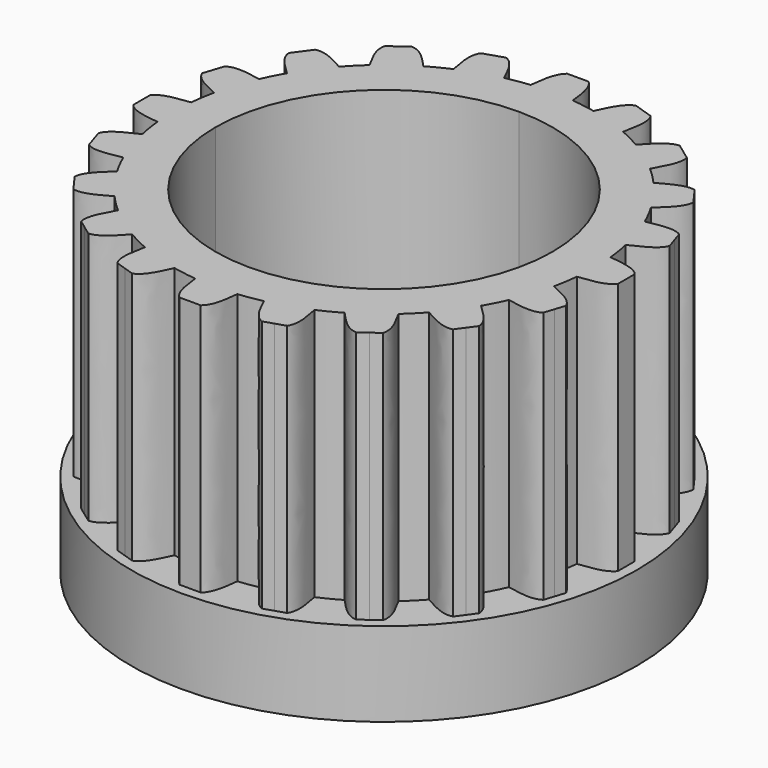
from build123d import *

# Parameters (mm, degrees)
F1_DEPTH = 6
F2_R     = 6
F3_DEPTH = 2
F4_D     = 7.9
F5_R     = 7
F6_DEPTH = 25


with BuildPart() as f1:
    # F0 (on Top) → F1 (new body)
    with BuildSketch(Plane.XY):
        with BuildLine():
            add(Edge.make_bspline(
                [(-2.0128683944, 4.5769379313), (-2.0760023158, 4.8905129064), (-2.1391362037, 5.2040878033), (-2.0146118467, 5.3913207201)],
                knots=[0, 0, 0, 0, 0.3592526572, 0.3592526572, 0.3592526572, 0.3592526572], degree=3))
            ThreePointArc((-2.0128683944, 4.5769379313), (-1.5450849719, 4.7552825815), (-1.0618118781, 4.8859549256))
            add(Edge.make_bspline(
                [(-1.5390835886, 5.5458292173), (-1.3282885019, 5.4675481998), (-1.1950501538, 5.1767516591), (-1.0618118781, 4.8859549256)],
                knots=[0.6407473428, 0.6407473428, 0.6407473428, 0.6407473428, 1, 1, 1, 1], degree=3))
            Line((-1.5390835886, 5.5458292173), (-1.7768477177, 5.4685749687))
            Line((-1.7768477177, 5.4685749687), (-2.0146118467, 5.3913207201))
        make_face()
        with BuildLine():
            add(Edge.make_bspline(
                [(-3.3287032059, 3.7309161029), (-3.4856470679, 4.0096340482), (-3.6425909881, 4.288352127), (-3.5820194493, 4.5049014046)],
                knots=[0, 0, 0, 0, 0.3592526572, 0.3592526572, 0.3592526572, 0.3592526572], degree=3))
            ThreePointArc((-3.3287032059, 3.7309161029), (-3.1377492418, 3.8928819267), (-2.9389262615, 4.0450849719))
            ThreePointArc((-2.9389262615, 4.0450849719), (-2.7327328838, 4.1871435354), (-2.5196862116, 4.3187013552))
            add(Edge.make_bspline(
                [(-3.1775109521, 4.7987940307), (-2.9528427626, 4.7894835432), (-2.7362645588, 4.5540922916), (-2.5196862116, 4.3187013552)],
                knots=[0.6407473428, 0.6407473428, 0.6407473428, 0.6407473428, 1, 1, 1, 1], degree=3))
            Line((-3.1775109521, 4.7987940307), (-3.3797652007, 4.6518477177))
            Line((-3.3797652007, 4.6518477177), (-3.5820194493, 4.5049014046))
        make_face()
        with BuildLine():
            add(Edge.make_bspline(
                [(-4.3187013552, 2.5196862116), (-4.5540924589, 2.7362645309), (-4.7894835831, 2.952842754), (-4.7987940307, 3.1775109521)],
                knots=[0, 0, 0, 0, 0.3592526572, 0.3592526572, 0.3592526572, 0.3592526572], degree=3))
            ThreePointArc((-4.3187013552, 2.5196862116), (-4.0450849719, 2.9389262615), (-3.7309161029, 3.3287032059))
            add(Edge.make_bspline(
                [(-4.5049014046, 3.5820194493), (-4.2883521382, 3.6425909796), (-4.0096340482, 3.48564704), (-3.7309161029, 3.3287032059)],
                knots=[0.6407473428, 0.6407473428, 0.6407473428, 0.6407473428, 1, 1, 1, 1], degree=3))
            Line((-4.5049014046, 3.5820194493), (-4.6518477177, 3.3797652007))
            Line((-4.6518477177, 3.3797652007), (-4.7987940307, 3.1775109521))
        make_face()
        with BuildLine():
            add(Edge.make_bspline(
                [(-4.8859549256, 1.0618118781), (-5.1767517427, 1.1950501538), (-5.4675482104, 1.3282885024), (-5.5458292173, 1.5390835886)],
                knots=[0, 0, 0, 0, 0.3592526572, 0.3592526572, 0.3592526572, 0.3592526572], degree=3))
            ThreePointArc((-4.8859549256, 1.0618118781), (-4.8266710462, 1.3050849061), (-4.7552825815, 1.5450849719))
            ThreePointArc((-4.7552825815, 1.5450849719), (-4.6719685634, 1.7812101905), (-4.5769379313, 2.0128683944))
            add(Edge.make_bspline(
                [(-5.3913207201, 2.0146118467), (-5.2040877757, 2.1391362053), (-4.890512767, 2.0760023228), (-4.5769379313, 2.0128683944)],
                knots=[0.6407473428, 0.6407473428, 0.6407473428, 0.6407473428, 1, 1, 1, 1], degree=3))
            Line((-5.3913207201, 2.0146118467), (-5.4685749687, 1.7768477177))
            Line((-5.4685749687, 1.7768477177), (-5.5458292173, 1.5390835886))
        make_face()
        with BuildLine():
            add(Edge.make_bspline(
                [(-5.75, -0.25), (-5.6104110628, -0.4262878476), (-5.2926741978, -0.4631438819), (-4.9749371855, -0.5)],
                knots=[0.6407473428, 0.6407473428, 0.6407473428, 0.6407473428, 1, 1, 1, 1], degree=3))
            ThreePointArc((-4.9749371855, -0.5), (-4.9937303656, -0.2503138753), (-5, 0))
            ThreePointArc((-5, 0), (-4.9937303656, 0.2503138753), (-4.9749371855, 0.5))
            add(Edge.make_bspline(
                [(-4.9749371855, 0.5), (-5.29267417, 0.4631439272), (-5.610411058, 0.4262878615), (-5.75, 0.25)],
                knots=[0, 0, 0, 0, 0.3592526572, 0.3592526572, 0.3592526572, 0.3592526572], degree=3))
            Line((-5.75, 0.25), (-5.75, 0))
            Line((-5.75, 0), (-5.75, -0.25))
        make_face()
        with BuildLine():
            add(Edge.make_bspline(
                [(-5.3913207201, -2.0146118467), (-5.2040877757, -2.1391362053), (-4.890512767, -2.0760023228), (-4.5769379313, -2.0128683944)],
                knots=[0.6407473428, 0.6407473428, 0.6407473428, 0.6407473428, 1, 1, 1, 1], degree=3))
            ThreePointArc((-4.5769379313, -2.0128683944), (-4.7552825815, -1.5450849719), (-4.8859549256, -1.0618118781))
            add(Edge.make_bspline(
                [(-4.8859549256, -1.0618118781), (-5.1767517427, -1.1950501538), (-5.4675482104, -1.3282885024), (-5.5458292173, -1.5390835886)],
                knots=[0, 0, 0, 0, 0.3592526572, 0.3592526572, 0.3592526572, 0.3592526572], degree=3))
            Line((-5.5458292173, -1.5390835886), (-5.4685749687, -1.7768477177))
            Line((-5.4685749687, -1.7768477177), (-5.3913207201, -2.0146118467))
        make_face()
        with BuildLine():
            add(Edge.make_bspline(
                [(-4.5049014046, -3.5820194493), (-4.2883521382, -3.6425909796), (-4.0096340482, -3.48564704), (-3.7309161029, -3.3287032059)],
                knots=[0.6407473428, 0.6407473428, 0.6407473428, 0.6407473428, 1, 1, 1, 1], degree=3))
            ThreePointArc((-3.7309161029, -3.3287032059), (-4.0450849719, -2.9389262615), (-4.3187013552, -2.5196862116))
            add(Edge.make_bspline(
                [(-4.3187013552, -2.5196862116), (-4.5540924589, -2.7362645309), (-4.7894835831, -2.952842754), (-4.7987940307, -3.1775109521)],
                knots=[0, 0, 0, 0, 0.3592526572, 0.3592526572, 0.3592526572, 0.3592526572], degree=3))
            Line((-4.7987940307, -3.1775109521), (-4.6518477177, -3.3797652007))
            Line((-4.6518477177, -3.3797652007), (-4.5049014046, -3.5820194493))
        make_face()
        with BuildLine():
            add(Edge.make_bspline(
                [(-3.1775109521, -4.7987940307), (-2.9528427626, -4.7894835432), (-2.7362645588, -4.5540922916), (-2.5196862116, -4.3187013552)],
                knots=[0.6407473428, 0.6407473428, 0.6407473428, 0.6407473428, 1, 1, 1, 1], degree=3))
            ThreePointArc((-2.5196862116, -4.3187013552), (-2.9389262615, -4.0450849719), (-3.3287032059, -3.7309161029))
            add(Edge.make_bspline(
                [(-3.3287032059, -3.7309161029), (-3.4856470679, -4.0096340482), (-3.6425909881, -4.288352127), (-3.5820194493, -4.5049014046)],
                knots=[0, 0, 0, 0, 0.3592526572, 0.3592526572, 0.3592526572, 0.3592526572], degree=3))
            Line((-3.5820194493, -4.5049014046), (-3.3797652007, -4.6518477177))
            Line((-3.3797652007, -4.6518477177), (-3.1775109521, -4.7987940307))
        make_face()
        with BuildLine():
            add(Edge.make_bspline(
                [(-1.5390835886, -5.5458292173), (-1.3282885019, -5.4675481998), (-1.1950501538, -5.1767516591), (-1.0618118781, -4.8859549256)],
                knots=[0.6407473428, 0.6407473428, 0.6407473428, 0.6407473428, 1, 1, 1, 1], degree=3))
            ThreePointArc((-1.0618118781, -4.8859549256), (-1.5450849719, -4.7552825815), (-2.0128683944, -4.5769379313))
            add(Edge.make_bspline(
                [(-2.0128683944, -4.5769379313), (-2.0760023158, -4.8905129064), (-2.1391362037, -5.2040878033), (-2.0146118467, -5.3913207201)],
                knots=[0, 0, 0, 0, 0.3592526572, 0.3592526572, 0.3592526572, 0.3592526572], degree=3))
            Line((-2.0146118467, -5.3913207201), (-1.7768477177, -5.4685749687))
            Line((-1.7768477177, -5.4685749687), (-1.5390835886, -5.5458292173))
        make_face()
        with BuildLine():
            ThreePointArc((1.5450849719, -4.7552825815), (1.3050849061, -4.8266710462), (1.0618118781, -4.8859549256))
            add(Edge.make_bspline(
                [(1.5390835886, -5.5458292173), (1.3282885019, -5.4675481998), (1.1950501538, -5.1767516591), (1.0618118781, -4.8859549256)],
                knots=[0.6407473428, 0.6407473428, 0.6407473428, 0.6407473428, 1, 1, 1, 1], degree=3))
            Line((1.5390835886, -5.5458292173), (1.7768477177, -5.4685749687))
            Line((1.7768477177, -5.4685749687), (2.0146118467, -5.3913207201))
            add(Edge.make_bspline(
                [(2.0128683944, -4.5769379313), (2.0760023158, -4.8905129064), (2.1391362037, -5.2040878033), (2.0146118467, -5.3913207201)],
                knots=[0, 0, 0, 0, 0.3592526572, 0.3592526572, 0.3592526572, 0.3592526572], degree=3))
            ThreePointArc((2.0128683944, -4.5769379313), (1.7812101905, -4.6719685634), (1.5450849719, -4.7552825815))
        make_face()
        with BuildLine():
            add(Edge.make_bspline(
                [(0.25, -5.75), (0.4262878476, -5.6104110628), (0.4631438819, -5.2926741978), (0.5, -4.9749371855)],
                knots=[0.6407473428, 0.6407473428, 0.6407473428, 0.6407473428, 1, 1, 1, 1], degree=3))
            ThreePointArc((0.5, -4.9749371855), (0.2503138753, -4.9937303656), (0, -5))
            ThreePointArc((0, -5), (-0.2503138753, -4.9937303656), (-0.5, -4.9749371855))
            add(Edge.make_bspline(
                [(-0.5, -4.9749371855), (-0.4631439272, -5.29267417), (-0.4262878615, -5.610411058), (-0.25, -5.75)],
                knots=[0, 0, 0, 0, 0.3592526572, 0.3592526572, 0.3592526572, 0.3592526572], degree=3))
            Line((-0.25, -5.75), (0, -5.75))
            Line((0, -5.75), (0.25, -5.75))
        make_face()
        with BuildLine():
            ThreePointArc((2.9389262615, -4.0450849719), (2.7327328838, -4.1871435354), (2.5196862116, -4.3187013552))
            add(Edge.make_bspline(
                [(3.1775109521, -4.7987940307), (2.9528427626, -4.7894835432), (2.7362645588, -4.5540922916), (2.5196862116, -4.3187013552)],
                knots=[0.6407473428, 0.6407473428, 0.6407473428, 0.6407473428, 1, 1, 1, 1], degree=3))
            Line((3.1775109521, -4.7987940307), (3.3797652007, -4.6518477177))
            Line((3.3797652007, -4.6518477177), (3.5820194493, -4.5049014046))
            add(Edge.make_bspline(
                [(3.3287032059, -3.7309161029), (3.4856470679, -4.0096340482), (3.6425909881, -4.288352127), (3.5820194493, -4.5049014046)],
                knots=[0, 0, 0, 0, 0.3592526572, 0.3592526572, 0.3592526572, 0.3592526572], degree=3))
            ThreePointArc((3.3287032059, -3.7309161029), (3.1377492418, -3.8928819267), (2.9389262615, -4.0450849719))
        make_face()
        with BuildLine():
            ThreePointArc((4.3187013552, -2.5196862116), (4.0450849719, -2.9389262615), (3.7309161029, -3.3287032059))
            add(Edge.make_bspline(
                [(4.5049014046, -3.5820194493), (4.2883521382, -3.6425909796), (4.0096340482, -3.48564704), (3.7309161029, -3.3287032059)],
                knots=[0.6407473428, 0.6407473428, 0.6407473428, 0.6407473428, 1, 1, 1, 1], degree=3))
            Line((4.5049014046, -3.5820194493), (4.6518477177, -3.3797652007))
            Line((4.6518477177, -3.3797652007), (4.7987940307, -3.1775109521))
            add(Edge.make_bspline(
                [(4.3187013552, -2.5196862116), (4.5540924589, -2.7362645309), (4.7894835831, -2.952842754), (4.7987940307, -3.1775109521)],
                knots=[0, 0, 0, 0, 0.3592526572, 0.3592526572, 0.3592526572, 0.3592526572], degree=3))
        make_face()
        with BuildLine():
            ThreePointArc((4.8859549256, -1.0618118781), (4.7552825815, -1.5450849719), (4.5769379313, -2.0128683944))
            add(Edge.make_bspline(
                [(5.3913207201, -2.0146118467), (5.2040877757, -2.1391362053), (4.890512767, -2.0760023228), (4.5769379313, -2.0128683944)],
                knots=[0.6407473428, 0.6407473428, 0.6407473428, 0.6407473428, 1, 1, 1, 1], degree=3))
            Line((5.3913207201, -2.0146118467), (5.4685749687, -1.7768477177))
            Line((5.4685749687, -1.7768477177), (5.5458292173, -1.5390835886))
            add(Edge.make_bspline(
                [(4.8859549256, -1.0618118781), (5.1767517427, -1.1950501538), (5.4675482104, -1.3282885024), (5.5458292173, -1.5390835886)],
                knots=[0, 0, 0, 0, 0.3592526572, 0.3592526572, 0.3592526572, 0.3592526572], degree=3))
        make_face()
        with BuildLine():
            ThreePointArc((4.9749371855, 0.5), (5, 0), (4.9749371855, -0.5))
            add(Edge.make_bspline(
                [(4.9749371855, -0.5), (5.29267417, -0.4631439272), (5.610411058, -0.4262878615), (5.75, -0.25)],
                knots=[0, 0, 0, 0, 0.3592526572, 0.3592526572, 0.3592526572, 0.3592526572], degree=3))
            Line((5.75, -0.25), (5.75, 0))
            Line((5.75, 0), (5.75, 0.25))
            add(Edge.make_bspline(
                [(5.75, 0.25), (5.6104110628, 0.4262878476), (5.2926741978, 0.4631438819), (4.9749371855, 0.5)],
                knots=[0.6407473428, 0.6407473428, 0.6407473428, 0.6407473428, 1, 1, 1, 1], degree=3))
        make_face()
        with BuildLine():
            ThreePointArc((4.5769379313, 2.0128683944), (4.7552825815, 1.5450849719), (4.8859549256, 1.0618118781))
            add(Edge.make_bspline(
                [(4.8859549256, 1.0618118781), (5.1767517427, 1.1950501538), (5.4675482104, 1.3282885024), (5.5458292173, 1.5390835886)],
                knots=[0, 0, 0, 0, 0.3592526572, 0.3592526572, 0.3592526572, 0.3592526572], degree=3))
            Line((5.5458292173, 1.5390835886), (5.4685749687, 1.7768477177))
            Line((5.4685749687, 1.7768477177), (5.3913207201, 2.0146118467))
            add(Edge.make_bspline(
                [(5.3913207201, 2.0146118467), (5.2040877757, 2.1391362053), (4.890512767, 2.0760023228), (4.5769379313, 2.0128683944)],
                knots=[0.6407473428, 0.6407473428, 0.6407473428, 0.6407473428, 1, 1, 1, 1], degree=3))
        make_face()
        with BuildLine():
            ThreePointArc((1.0618118781, 4.8859549256), (1.5450849719, 4.7552825815), (2.0128683944, 4.5769379313))
            add(Edge.make_bspline(
                [(2.0128683944, 4.5769379313), (2.0760023158, 4.8905129064), (2.1391362037, 5.2040878033), (2.0146118467, 5.3913207201)],
                knots=[0, 0, 0, 0, 0.3592526572, 0.3592526572, 0.3592526572, 0.3592526572], degree=3))
            Line((2.0146118467, 5.3913207201), (1.7768477177, 5.4685749687))
            Line((1.7768477177, 5.4685749687), (1.5390835886, 5.5458292173))
            add(Edge.make_bspline(
                [(1.5390835886, 5.5458292173), (1.3282885019, 5.4675481998), (1.1950501538, 5.1767516591), (1.0618118781, 4.8859549256)],
                knots=[0.6407473428, 0.6407473428, 0.6407473428, 0.6407473428, 1, 1, 1, 1], degree=3))
        make_face()
        with BuildLine():
            ThreePointArc((2.5196862116, 4.3187013552), (2.9389262615, 4.0450849719), (3.3287032059, 3.7309161029))
            add(Edge.make_bspline(
                [(3.3287032059, 3.7309161029), (3.4856470679, 4.0096340482), (3.6425909881, 4.288352127), (3.5820194493, 4.5049014046)],
                knots=[0, 0, 0, 0, 0.3592526572, 0.3592526572, 0.3592526572, 0.3592526572], degree=3))
            Line((3.5820194493, 4.5049014046), (3.3797652007, 4.6518477177))
            Line((3.3797652007, 4.6518477177), (3.1775109521, 4.7987940307))
            add(Edge.make_bspline(
                [(3.1775109521, 4.7987940307), (2.9528427626, 4.7894835432), (2.7362645588, 4.5540922916), (2.5196862116, 4.3187013552)],
                knots=[0.6407473428, 0.6407473428, 0.6407473428, 0.6407473428, 1, 1, 1, 1], degree=3))
        make_face()
        with BuildLine():
            ThreePointArc((-0.5, 4.9749371855), (0, 5), (0.5, 4.9749371855))
            add(Edge.make_bspline(
                [(0.25, 5.75), (0.4262878476, 5.6104110628), (0.4631438819, 5.2926741978), (0.5, 4.9749371855)],
                knots=[0.6407473428, 0.6407473428, 0.6407473428, 0.6407473428, 1, 1, 1, 1], degree=3))
            Line((0.25, 5.75), (0, 5.75))
            Line((0, 5.75), (-0.25, 5.75))
            add(Edge.make_bspline(
                [(-0.5, 4.9749371855), (-0.4631439272, 5.29267417), (-0.4262878615, 5.610411058), (-0.25, 5.75)],
                knots=[0, 0, 0, 0, 0.3592526572, 0.3592526572, 0.3592526572, 0.3592526572], degree=3))
        make_face()
        with BuildLine():
            ThreePointArc((3.7309161029, 3.3287032059), (4.0450849719, 2.9389262615), (4.3187013552, 2.5196862116))
            add(Edge.make_bspline(
                [(4.3187013552, 2.5196862116), (4.5540924589, 2.7362645309), (4.7894835831, 2.952842754), (4.7987940307, 3.1775109521)],
                knots=[0, 0, 0, 0, 0.3592526572, 0.3592526572, 0.3592526572, 0.3592526572], degree=3))
            Line((4.7987940307, 3.1775109521), (4.6518477177, 3.3797652007))
            Line((4.6518477177, 3.3797652007), (4.5049014046, 3.5820194493))
            add(Edge.make_bspline(
                [(4.5049014046, 3.5820194493), (4.2883521382, 3.6425909796), (4.0096340482, 3.48564704), (3.7309161029, 3.3287032059)],
                knots=[0.6407473428, 0.6407473428, 0.6407473428, 0.6407473428, 1, 1, 1, 1], degree=3))
        make_face()
        with BuildLine():
            ThreePointArc((0, -5), (0.2503138753, -4.9937303656), (0.5, -4.9749371855))
            ThreePointArc((0.5, -4.9749371855), (0.7821723252, -4.938441703), (1.0618118781, -4.8859549256))
            ThreePointArc((1.0618118781, -4.8859549256), (1.3050849061, -4.8266710462), (1.5450849719, -4.7552825815))
            ThreePointArc((1.5450849719, -4.7552825815), (1.7812101905, -4.6719685634), (2.0128683944, -4.5769379313))
            ThreePointArc((2.0128683944, -4.5769379313), (2.2699524987, -4.4550326209), (2.5196862116, -4.3187013552))
            ThreePointArc((2.5196862116, -4.3187013552), (2.7327328838, -4.1871435354), (2.9389262615, -4.0450849719))
            ThreePointArc((2.9389262615, -4.0450849719), (3.1377492418, -3.8928819267), (3.3287032059, -3.7309161029))
            ThreePointArc((3.3287032059, -3.7309161029), (3.5355339059, -3.5355339059), (3.7309161029, -3.3287032059))
            ThreePointArc((3.7309161029, -3.3287032059), (4.0450849719, -2.9389262615), (4.3187013552, -2.5196862116))
            ThreePointArc((4.3187013552, -2.5196862116), (4.4550326209, -2.2699524987), (4.5769379313, -2.0128683944))
            ThreePointArc((4.5769379313, -2.0128683944), (4.7552825815, -1.5450849719), (4.8859549256, -1.0618118781))
            ThreePointArc((4.8859549256, -1.0618118781), (4.938441703, -0.7821723252), (4.9749371855, -0.5))
            ThreePointArc((4.9749371855, -0.5), (5, 0), (4.9749371855, 0.5))
            ThreePointArc((4.9749371855, 0.5), (4.938441703, 0.7821723252), (4.8859549256, 1.0618118781))
            ThreePointArc((4.8859549256, 1.0618118781), (4.7552825815, 1.5450849719), (4.5769379313, 2.0128683944))
            ThreePointArc((4.5769379313, 2.0128683944), (4.4550326209, 2.2699524987), (4.3187013552, 2.5196862116))
            ThreePointArc((4.3187013552, 2.5196862116), (4.0450849719, 2.9389262615), (3.7309161029, 3.3287032059))
            ThreePointArc((3.7309161029, 3.3287032059), (3.5355339059, 3.5355339059), (3.3287032059, 3.7309161029))
            ThreePointArc((3.3287032059, 3.7309161029), (2.9389262615, 4.0450849719), (2.5196862116, 4.3187013552))
            ThreePointArc((2.5196862116, 4.3187013552), (2.2699524987, 4.4550326209), (2.0128683944, 4.5769379313))
            ThreePointArc((2.0128683944, 4.5769379313), (1.5450849719, 4.7552825815), (1.0618118781, 4.8859549256))
            ThreePointArc((1.0618118781, 4.8859549256), (0.7821723252, 4.938441703), (0.5, 4.9749371855))
            ThreePointArc((0.5, 4.9749371855), (0, 5), (-0.5, 4.9749371855))
            ThreePointArc((-0.5, 4.9749371855), (-0.7821723252, 4.938441703), (-1.0618118781, 4.8859549256))
            ThreePointArc((-1.0618118781, 4.8859549256), (-1.5450849719, 4.7552825815), (-2.0128683944, 4.5769379313))
            ThreePointArc((-2.0128683944, 4.5769379313), (-2.2699524987, 4.4550326209), (-2.5196862116, 4.3187013552))
            ThreePointArc((-2.5196862116, 4.3187013552), (-2.7327328838, 4.1871435354), (-2.9389262615, 4.0450849719))
            ThreePointArc((-2.9389262615, 4.0450849719), (-3.1377492418, 3.8928819267), (-3.3287032059, 3.7309161029))
            ThreePointArc((-3.3287032059, 3.7309161029), (-3.5355339059, 3.5355339059), (-3.7309161029, 3.3287032059))
            ThreePointArc((-3.7309161029, 3.3287032059), (-4.0450849719, 2.9389262615), (-4.3187013552, 2.5196862116))
            ThreePointArc((-4.3187013552, 2.5196862116), (-4.4550326209, 2.2699524987), (-4.5769379313, 2.0128683944))
            ThreePointArc((-4.5769379313, 2.0128683944), (-4.6719685634, 1.7812101905), (-4.7552825815, 1.5450849719))
            ThreePointArc((-4.7552825815, 1.5450849719), (-4.8266710462, 1.3050849061), (-4.8859549256, 1.0618118781))
            ThreePointArc((-4.8859549256, 1.0618118781), (-4.938441703, 0.7821723252), (-4.9749371855, 0.5))
            ThreePointArc((-4.9749371855, 0.5), (-4.9937303656, 0.2503138753), (-5, 0))
            ThreePointArc((-5, 0), (-4.9937303656, -0.2503138753), (-4.9749371855, -0.5))
            ThreePointArc((-4.9749371855, -0.5), (-4.938441703, -0.7821723252), (-4.8859549256, -1.0618118781))
            ThreePointArc((-4.8859549256, -1.0618118781), (-4.7552825815, -1.5450849719), (-4.5769379313, -2.0128683944))
            ThreePointArc((-4.5769379313, -2.0128683944), (-4.4550326209, -2.2699524987), (-4.3187013552, -2.5196862116))
            ThreePointArc((-4.3187013552, -2.5196862116), (-4.0450849719, -2.9389262615), (-3.7309161029, -3.3287032059))
            ThreePointArc((-3.7309161029, -3.3287032059), (-3.5355339059, -3.5355339059), (-3.3287032059, -3.7309161029))
            ThreePointArc((-3.3287032059, -3.7309161029), (-2.9389262615, -4.0450849719), (-2.5196862116, -4.3187013552))
            ThreePointArc((-2.5196862116, -4.3187013552), (-2.2699524987, -4.4550326209), (-2.0128683944, -4.5769379313))
            ThreePointArc((-2.0128683944, -4.5769379313), (-1.5450849719, -4.7552825815), (-1.0618118781, -4.8859549256))
            ThreePointArc((-1.0618118781, -4.8859549256), (-0.7821723252, -4.938441703), (-0.5, -4.9749371855))
            ThreePointArc((-0.5, -4.9749371855), (-0.2503138753, -4.9937303656), (0, -5))
        make_face()
        with BuildLine():
            ThreePointArc((0, -4), (-2.8284271247, -2.8284271247), (-4, 0))
            ThreePointArc((-4, 0), (-2.8284271247, 2.8284271247), (0, 4))
            ThreePointArc((0, 4), (2.8284271247, 2.8284271247), (4, 0))
            ThreePointArc((4, 0), (2.8284271247, -2.8284271247), (0, -4))
        make_face(mode=Mode.SUBTRACT)
    extrude(amount=F1_DEPTH)

    # F2 (on Top) → F3 (join)
    with BuildSketch(Plane.XY):
        Circle(F2_R)
    extrude(amount=-F3_DEPTH)

    # F4 (through all)
    with Locations(Plane.XY):
        with Locations((0, 0)):
            Hole(F4_D / 2)


with BuildPart() as f6:
    # F5 (on Top) → F6 (new body)
    with BuildSketch(Plane.XY):
        with Locations((-17.9181918502, 3.5700574517)):
            Circle(F5_R)
    extrude(amount=F6_DEPTH)


solid = f1.part
